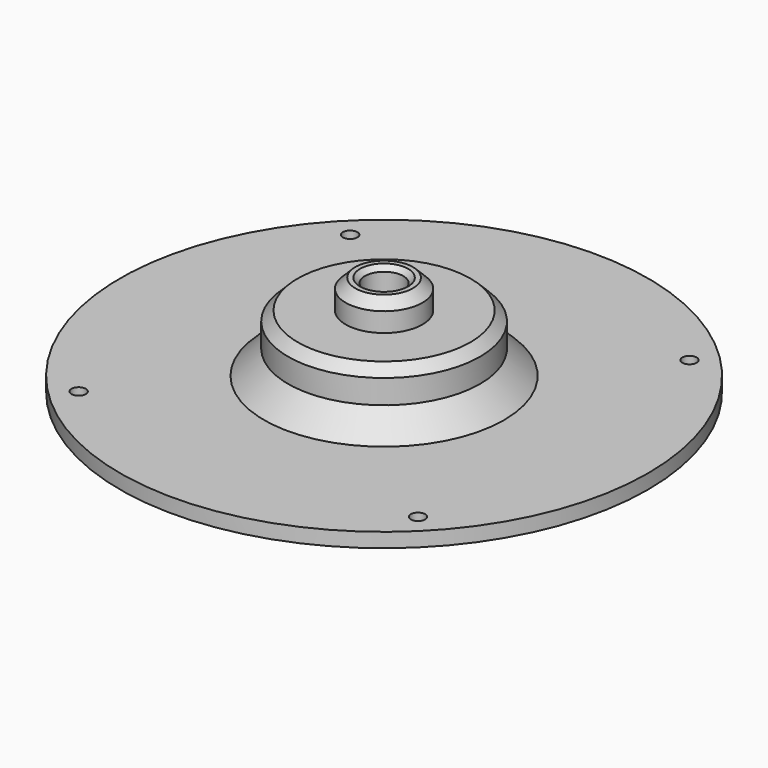
from build123d import *

# Parameters (mm, degrees)
SKETCH_R        = 55
SKETCH_R_2      = 12.5
SKETCH_R_3      = 1.5
PAD_DEPTH       = 3
SKETCH001_R     = 20
SKETCH001_R_2   = 12.5
PAD001_DEPTH    = 8
SKETCH002_R     = 20
SKETCH002_R_2   = 4
PAD002_DEPTH    = 4
SKETCH003_R     = 8
SKETCH003_R_2   = 4
PAD003_DEPTH    = 6
CHAMFER_SIZE    = 2
CHAMFER001_SIZE = 2
CHAMFER002_SIZE = 2
CHAMFER003_SIZE = 1
CHAMFER004_SIZE = 1


with BuildPart() as part:
    # Sketch → Pad (new body)
    with BuildSketch(Plane.XY):
        Circle(SKETCH_R)
        Circle(SKETCH_R_2, mode=Mode.SUBTRACT)
        with Locations((35.355339, 35.355339)):
            Circle(SKETCH_R_3, mode=Mode.SUBTRACT)
        with Locations((-35.355339, 35.355339)):
            Circle(SKETCH_R_3, mode=Mode.SUBTRACT)
        with Locations((-35.355339, -35.355339)):
            Circle(SKETCH_R_3, mode=Mode.SUBTRACT)
        with Locations((35.355339, -35.355339)):
            Circle(SKETCH_R_3, mode=Mode.SUBTRACT)
    extrude(amount=PAD_DEPTH)

    # Sketch001 (on Face8 of Pad) → Pad001 (join)
    with BuildSketch(Plane.XY.offset(3)):
        Circle(SKETCH001_R)
        Circle(SKETCH001_R_2, mode=Mode.SUBTRACT)
    extrude(amount=PAD001_DEPTH)

    # Sketch002 (on Face11 of Pad001) → Pad002 (join)
    with BuildSketch(Plane.XY.offset(11)):
        Circle(SKETCH002_R)
        Circle(SKETCH002_R_2, mode=Mode.SUBTRACT)
    extrude(amount=PAD002_DEPTH)

    # Sketch003 (on Face13 of Pad002) → Pad003 (join)
    with BuildSketch(Plane.XY.offset(15)):
        Circle(SKETCH003_R)
        Circle(SKETCH003_R_2, mode=Mode.SUBTRACT)
    extrude(amount=PAD003_DEPTH)

    # Sketch004 → Revolution (revolve)
    with BuildSketch(Plane.XZ):
        Polygon((25, 3), (20, 8), (20, 3), align=None)
    revolve(axis=Axis((0, 0, 0), (0, 0, 1)))

    # Chamfer
    chamfer_edges = [part.edges().sort_by_distance(p)[0] for p in [
        (-20, 0, 15),
    ]]
    chamfer(chamfer_edges, length=CHAMFER_SIZE)

    # Chamfer001
    chamfer001_edges = [part.edges().sort_by_distance(p)[0] for p in [
        (-8, 0, 21),
    ]]
    chamfer(chamfer001_edges, length=CHAMFER001_SIZE)

    # Chamfer002
    chamfer002_edges = [part.edges().sort_by_distance(p)[0] for p in [
        (-12.5, 0, 0),
    ]]
    chamfer(chamfer002_edges, length=CHAMFER002_SIZE)

    # Chamfer003
    chamfer003_edges = [part.edges().sort_by_distance(p)[0] for p in [
        (-4, 0, 11),
    ]]
    chamfer(chamfer003_edges, length=CHAMFER003_SIZE)

    # Chamfer004
    chamfer004_edges = [part.edges().sort_by_distance(p)[0] for p in [
        (-4, 0, 21),
    ]]
    chamfer(chamfer004_edges, length=CHAMFER004_SIZE)


solid = part.part
